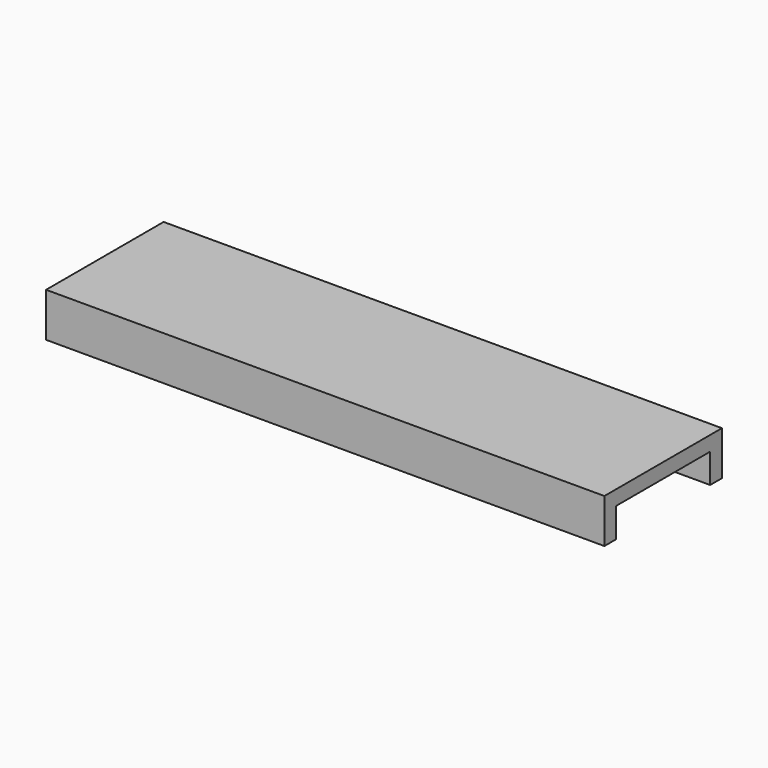
from build123d import *

# Parameters (mm, degrees)
BOX036_W     = 9
BOX036_H     = 1.5
BOX036_DEPTH = 2
BOX037_W     = 9
BOX037_H     = 1.5
BOX037_DEPTH = 2
BOX006_W     = 39
BOX006_H     = 8
BOX006_DEPTH = 2
BOX005_W     = 38
BOX005_H     = 10
BOX005_DEPTH = 3


with BuildPart() as cubo036:
    # Box036 → Box036 (new body)
    with BuildSketch(Plane(origin=(-36, 63.25, 45), x_dir=(1, 0, 0), z_dir=(0, 0, 1))):
        with Locations((4.5, 0.75)):
            Rectangle(BOX036_W, BOX036_H)
    extrude(amount=BOX036_DEPTH)


with BuildPart() as cubo037:
    # Box037 → Box037 (new body)
    with BuildSketch(Plane(origin=(-36, 55.25, 45), x_dir=(1, 0, 0), z_dir=(0, 0, 1))):
        with Locations((4.5, 0.75)):
            Rectangle(BOX037_W, BOX037_H)
    extrude(amount=BOX037_DEPTH)


with BuildPart() as cubo006:
    # Box006 → Box006 (new body)
    with BuildSketch(Plane(origin=(-37, 56, 45), x_dir=(1, 0, 0), z_dir=(0, 0, 1))):
        with Locations((19.5, 4)):
            Rectangle(BOX006_W, BOX006_H)
    extrude(amount=BOX006_DEPTH)


with BuildPart() as fusion002019:
    # Box005 → Box005 (new body)
    with BuildSketch(Plane(origin=(-37, 55, 45), x_dir=(1, 0, 0), z_dir=(0, 0, 1))):
        with Locations((19, 5)):
            Rectangle(BOX005_W, BOX005_H)
    extrude(amount=BOX005_DEPTH)

    # Cut054: cut Cubo006
    add(cubo006.part, mode=Mode.SUBTRACT)


with BuildPart() as fusion002019_1:
    # Cut054 placement: moved
    add(fusion002019.part.moved(Location((1, 0, 0))))

    # Fusion002019: union Cubo036, Cubo037
    add(cubo036.part)
    add(cubo037.part)


solid = fusion002019_1.part
